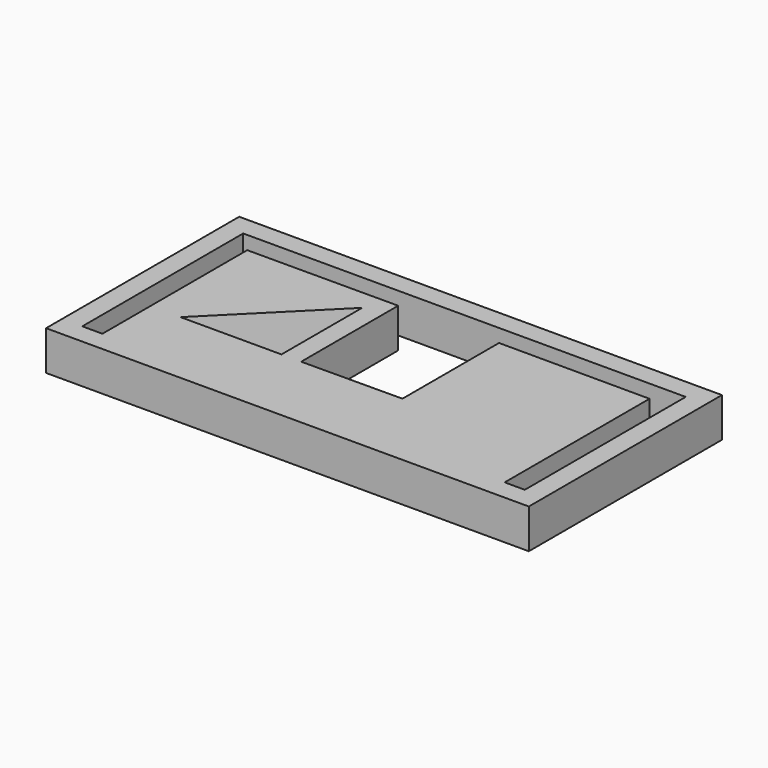
from build123d import *

# Parameters (mm, degrees)
F1_DEPTH = 2


with BuildPart() as f1:
    # F0 (on Top) → F1 (new body)
    with BuildSketch(Plane.XY):
        Polygon((-10.206026, 0), (0, 0), (10.206026, 0), (11.226628, 0), (12.247231, 0), (12.247231, 12.247231), (0, 12.247231), (-12.247231, 12.247231), (-12.247231, 0), (-11.226628, 0), align=None)
        Polygon((-11.226628, 11.226628), (0, 11.226628), (11.226628, 11.226628), (11.226628, 1.020603), (10.206026, 1.020603), (10.206026, 10.206026), (2.558176, 10.21982), (2.558176, 4.096205), (-2.558176, 4.067808), (-2.558176, 10.21982), (-10.206026, 10.206026), (-10.206026, 1.020603), (-11.226628, 1.020603), align=None, mode=Mode.SUBTRACT)
        Polygon((-3.558176, 9.188302), (-3.558176, 4.067808), (-8.678669, 4.067808), align=None, mode=Mode.SUBTRACT)
    extrude(amount=F1_DEPTH)


solid = f1.part
